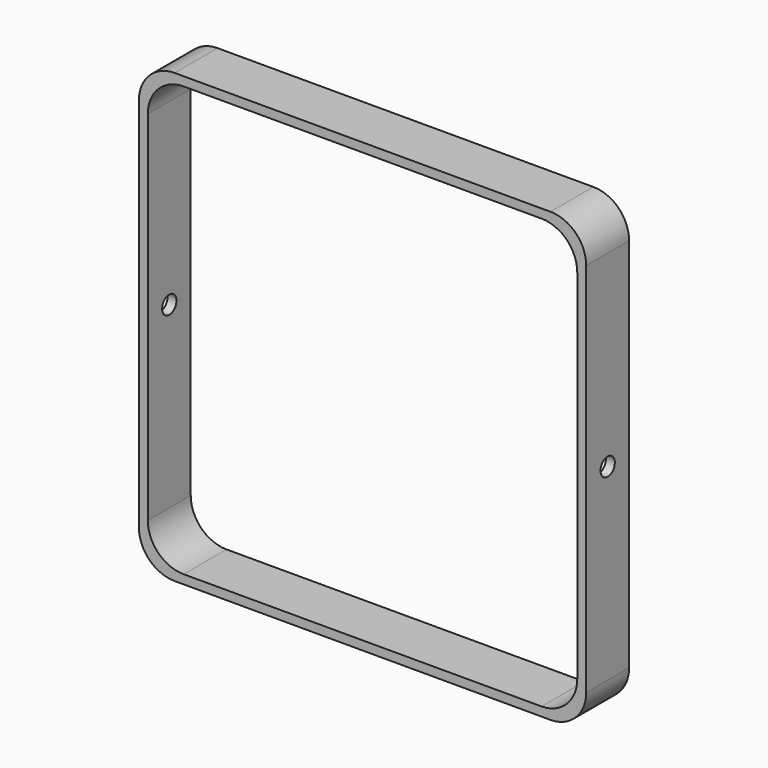
from build123d import *

# Parameters (mm, degrees)
F0_W     = 317.5
F0_H     = 317.5
F0_W_2   = 304.8
F0_H_2   = 304.8
F1_DEPTH = 38.1
F2_R     = 25.4
F3_D     = 12.7
F4_D     = 12.7


with BuildPart() as f1:
    # F0 (on Front) → F1 (new body)
    with BuildSketch(Plane.XZ):
        Rectangle(F0_W, F0_H)
        Rectangle(F0_W_2, F0_H_2, mode=Mode.SUBTRACT)
    extrude(amount=F1_DEPTH)

    # F2
    f2_edges = [f1.edges().sort_by_distance(p)[0] for p in [
        (152.4, -19.05, -152.4),
        (-152.4, -19.05, -152.4),
        (-152.4, -19.05, 152.4),
        (152.4, -19.05, 152.4),
        (158.75, -19.05, -158.75),
        (158.75, -19.05, 158.75),
        (-158.75, -19.05, 158.75),
        (-158.75, -19.05, -158.75),
    ]]
    fillet(f2_edges, radius=F2_R)

    # F3 (through all)
    with Locations(Plane.YZ):
        with Locations((-19.05, 0)):
            Hole(F3_D / 2)

    # F4 (through all)
    with Locations(Plane(origin=(0, 0, 0), x_dir=(0, 1, 0), z_dir=(-1, 0, 0))):
        with Locations((-19.05, 0)):
            Hole(F4_D / 2)


solid = f1.part
